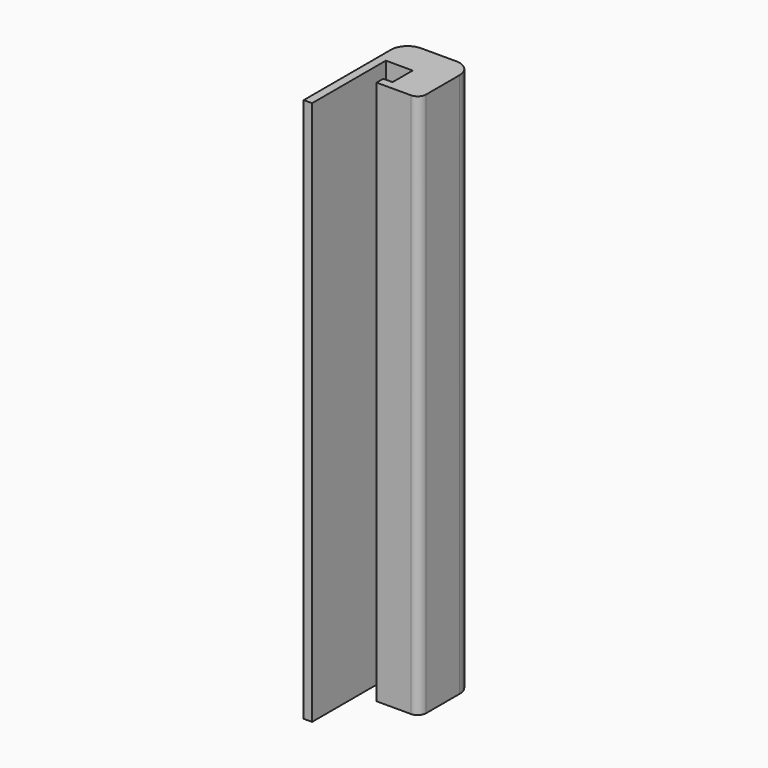
from build123d import *

# Parameters (mm, degrees)
F1_DEPTH = 65
F2_R     = 2
F3_R     = 1


with BuildPart() as f1:
    # F0 (on Top) → F1 (new body)
    with BuildSketch(Plane.XY):
        Polygon((0, 15), (0, 0), (1, 0), (1, 11), (4.2, 11), (4.2, 8), (3.1, 8), (3.1, 7), (4.2, 7), (8.2, 7), (8.2, 15), align=None)
    extrude(amount=F1_DEPTH)

    # F2
    f2_edges = [f1.edges().sort_by_distance(p)[0] for p in [
        (8.2, 15, 32.5),
        (0, 15, 32.5),
    ]]
    fillet(f2_edges, radius=F2_R)

    # F3
    f3_edges = [f1.edges().sort_by_distance(p)[0] for p in [
        (8.2, 7, 32.5),
    ]]
    fillet(f3_edges, radius=F3_R)


solid = f1.part
